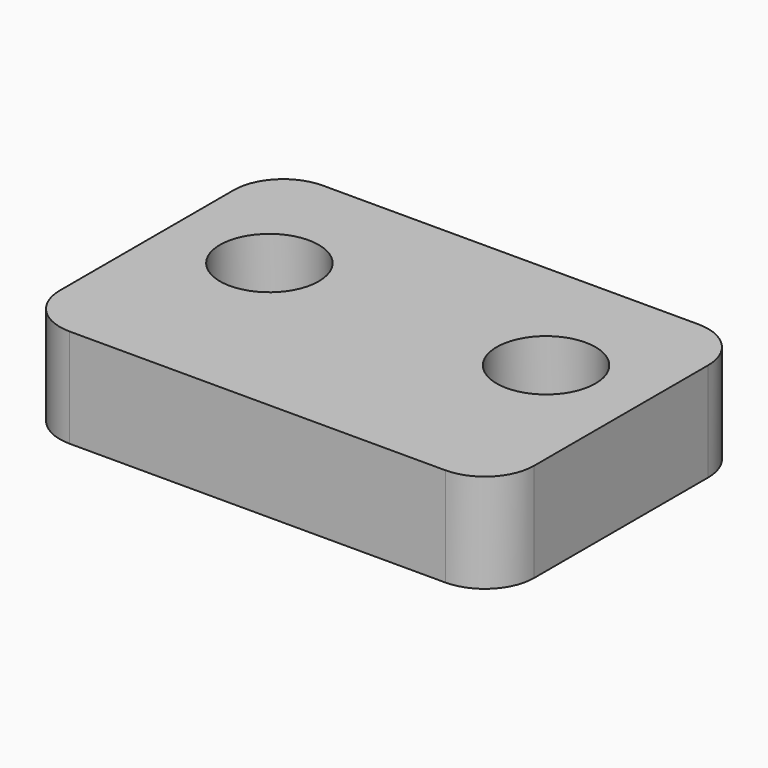
from build123d import *

# Parameters (mm, degrees)
F0_W     = 96
F0_H     = 64
F1_DEPTH = 20
F2_R     = 10
F3_R     = 10
F4_DEPTH = 25
F5_DEPTH = 55.9


with BuildPart() as f1:
    # F0 (on Top) → F1 (new body)
    with BuildSketch(Plane.XY):
        Rectangle(F0_W, F0_H)
    extrude(amount=F1_DEPTH)

    # F2
    f2_edges = [f1.edges().sort_by_distance(p)[0] for p in [
        (48, -32, 10),
        (48, 32, 10),
        (-48, 32, 10),
        (-48, -32, 10),
    ]]
    fillet(f2_edges, radius=F2_R)

    # F3 (on face) → F4 (cut)
    with BuildSketch(Plane.XY.offset(20)):
        with Locations((28, 6)):
            Circle(F3_R)
    extrude(amount=-F4_DEPTH, mode=Mode.SUBTRACT)

    # F3 (on face) → F5 (cut)
    with BuildSketch(Plane.XY.offset(20)):
        with Locations((-28, 6)):
            Circle(F3_R)
    extrude(amount=-F5_DEPTH, mode=Mode.SUBTRACT)


solid = f1.part
